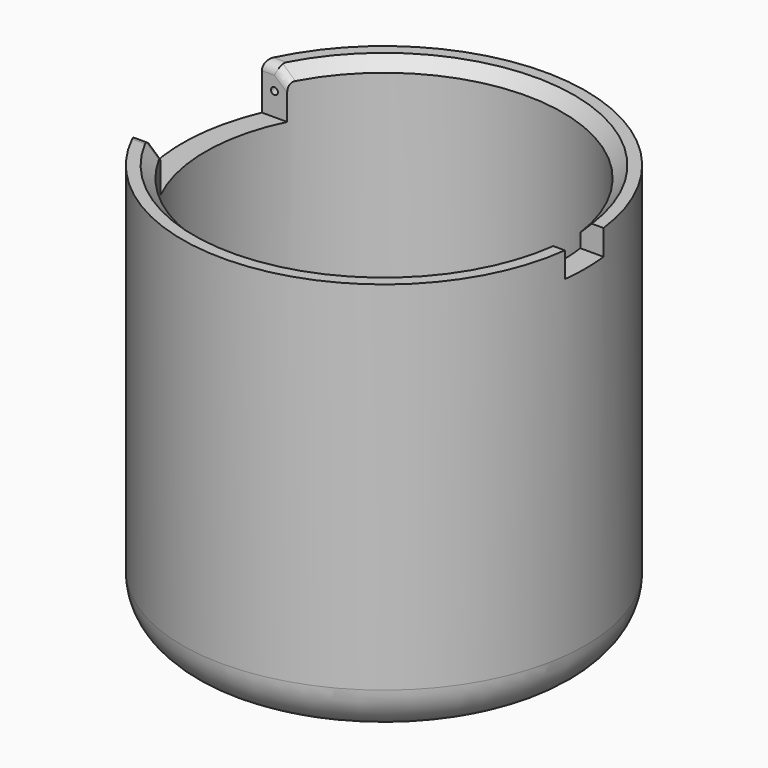
from build123d import *

# Parameters (mm, degrees)
F0_R      = 22.225
F1_DEPTH  = 44.45
F2_R      = 5.08
F3_T      = -2.54
F4_W      = 10.4627240348
F4_H      = 5.334
F5_DEPTH  = 2.794
F6_SIZE   = 1.27
F7_W      = 12.1457316697
F7_H      = 17.4408461899
F8_DEPTH  = 5.08
F9_R      = 0.381
F10_DEPTH = 6.35
F11_R     = 0.381
F12_DEPTH = 6.35
F13_R     = 1.016


with BuildPart() as f1:
    # F0 (on Top) → F1 (new body)
    with BuildSketch(Plane.XY):
        Circle(F0_R)
    extrude(amount=F1_DEPTH)

    # F2
    f2_edges = [f1.edges().sort_by_distance(p)[0] for p in [
        (-22.225, 0, 0),
    ]]
    fillet(f2_edges, radius=F2_R)

    # F3
    f3_openings = [f1.faces().sort_by_distance(p)[0] for p in [
        (0, 0, 44.45),
    ]]
    offset(amount=F3_T, openings=f3_openings)

    # F4 (on face) → F5 (cut)
    with BuildSketch(Plane.XY.offset(44.45)):
        with Locations((19.685, 0)):
            Rectangle(F4_W, F4_H)
    extrude(amount=-F5_DEPTH, mode=Mode.SUBTRACT)

    # F6
    f6_edges = [f1.edges().sort_by_distance(p)[0] for p in [
        (-19.685, 0, 44.45),
    ]]
    chamfer(f6_edges, length=F6_SIZE)

    # F7 (on face) → F8 (cut)
    with BuildSketch(Plane.XY.offset(44.45)):
        with Locations((-22.225, 0)):
            Rectangle(F7_W, F7_H)
    extrude(amount=-F8_DEPTH, mode=Mode.SUBTRACT)

    # F9 (on face) → F10 (cut)
    with BuildSketch(Plane(origin=(0, -8.7204230949, 0), x_dir=(-1, 0, 0), z_dir=(0, 1, 0))):
        with Locations((19.0542973118, 41.91)):
            Circle(F9_R)
    extrude(amount=-F10_DEPTH, mode=Mode.SUBTRACT)

    # F11 (on face) → F12 (cut)
    with BuildSketch(Plane.XZ.offset(-8.7204230949)):
        with Locations((-19.0542973118, 41.91)):
            Circle(F11_R)
    extrude(amount=-F12_DEPTH, mode=Mode.SUBTRACT)

    # F13
    f13_edges = [f1.edges().sort_by_distance(p)[0] for p in [
        (-19.748509, 8.720423, 44.45),
        (-19.748509, -8.720423, 44.45),
        (-18.352286, -8.720423, 43.813764),
        (-18.352286, 8.720423, 43.813764),
    ]]
    fillet(f13_edges, radius=F13_R)


solid = f1.part
